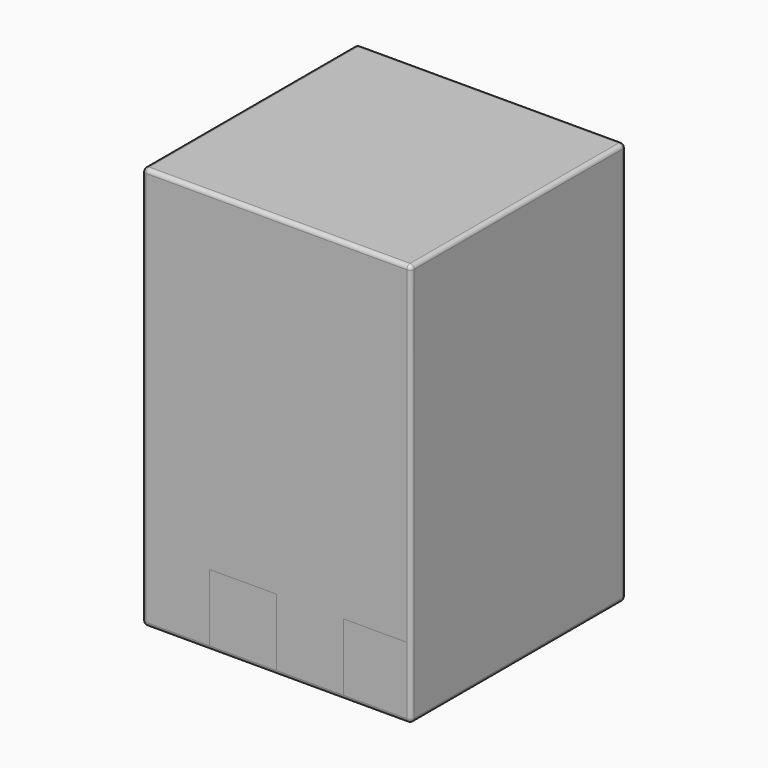
from build123d import *

# Parameters (mm, degrees)
F0_W        = 101.6
F0_H        = 101.6
F1_DEPTH    = 152.4
F2_R        = 1.524
F3_W        = 25.4
F3_H        = 25.4
F3_W_2      = 23.876
F4_DEPTH    = 25.4
F4_FACE_W   = 23.876
F4_FACE_H   = 25.4
F4_FACE_W_2 = 25.4
F5_DEPTH    = 25.4


with BuildPart() as f1:
    # F0 (on Top) → F1 (new body)
    with BuildSketch(Plane.XY):
        Rectangle(F0_W, F0_H)
    extrude(amount=F1_DEPTH)

    # F2
    f2_edges = [f1.edges().sort_by_distance(p)[0] for p in [
        (-50.8, -50.8, 76.2),
        (50.8, -50.8, 76.2),
        (0, -50.8, 0),
        (0, -50.8, 152.4),
        (50.8, 50.8, 76.2),
        (-50.8, 50.8, 76.2),
        (0, 50.8, 0),
        (0, 50.8, 152.4),
        (50.8, 0, 152.4),
        (-50.8, 0, 152.4),
        (50.8, 0, 0),
        (-50.8, 0, 0),
    ]]
    fillet(f2_edges, radius=F2_R)

    # F3 (on face) → F4 (cut)
    with BuildSketch(Plane.XZ.offset(50.8)):
        with Locations((-12.7, 14.224)):
            Rectangle(F3_W, F3_H)
        with Locations((37.338, 14.224)):
            Rectangle(F3_W_2, F3_H)
    extrude(amount=-F4_DEPTH, mode=Mode.SUBTRACT)


with BuildPart() as f5:
    # F4_face (on face) → F5 (new body)
    with BuildSketch(Plane(origin=(37.338, -25.4, 14.224), x_dir=(1, 0, 0), z_dir=(0, -1, 0))):
        Rectangle(F4_FACE_W, F4_FACE_H)
        with Locations((-50.038, 0)):
            Rectangle(F4_FACE_W_2, F4_FACE_H)
    extrude(amount=F5_DEPTH)


solid = Compound([f1.part, f5.part])
